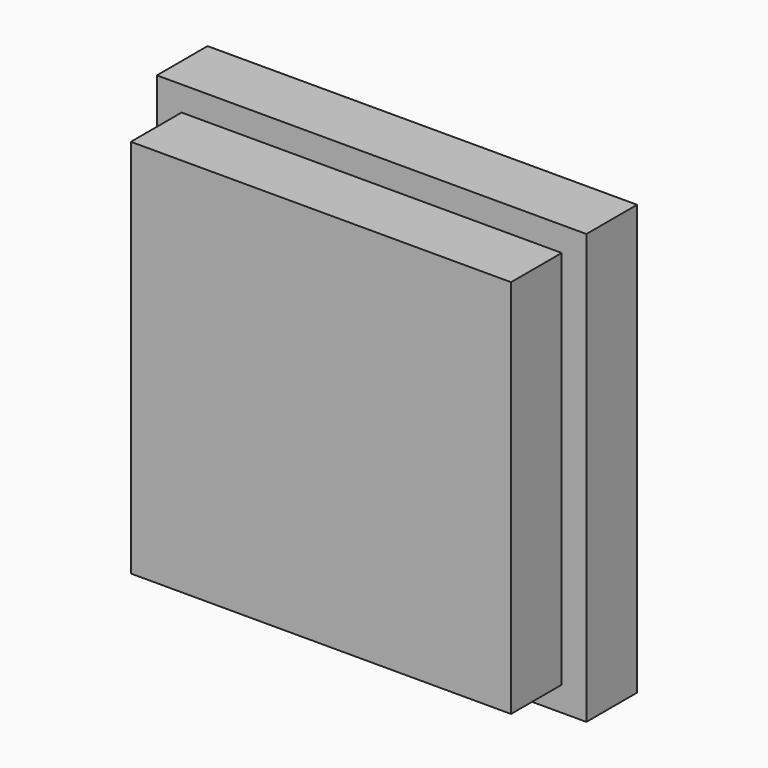
from build123d import *

# Parameters (mm, degrees)
F0_W     = 76.2
F0_H     = 76.2
F1_DEPTH = 25.4
F0_W_2   = 86.104107
F0_H_2   = 86.104107
F2_DEPTH = 12.7


with BuildPart() as f1:
    # F0 (on Front) → F1 (new body)
    with BuildSketch(Plane.XZ):
        with Locations((-6.351506, 13.068704)):
            Rectangle(F0_W, F0_H)
    extrude(amount=F1_DEPTH)

    # F0 (on Front) → F2 (join)
    with BuildSketch(Plane.XZ):
        with Locations((-6.351506, 13.068703)):
            Rectangle(F0_W_2, F0_H_2)
        with Locations((-6.351506, 13.068704)):
            Rectangle(F0_W, F0_H, mode=Mode.SUBTRACT)
    extrude(amount=F2_DEPTH)


solid = f1.part
